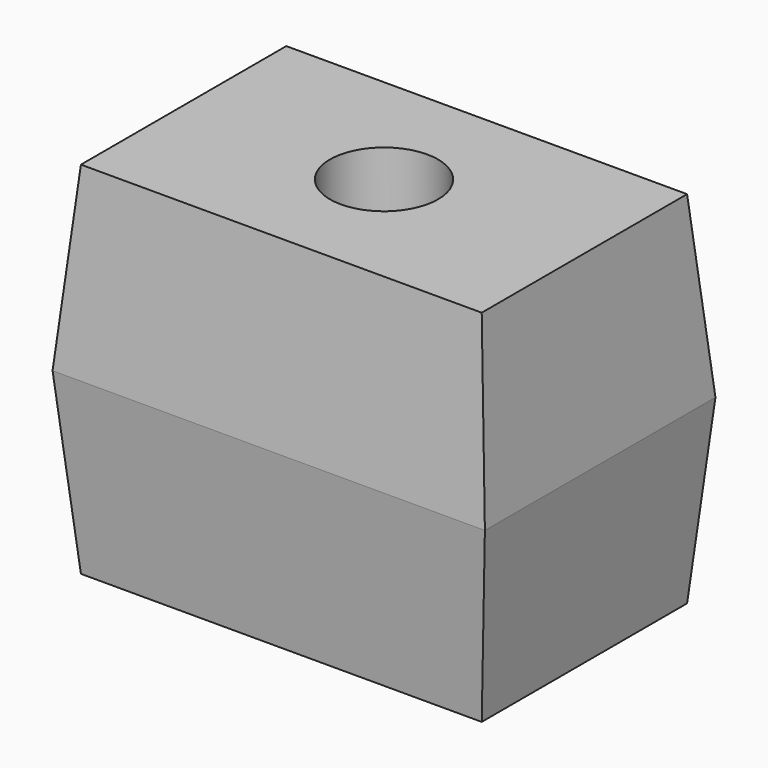
from build123d import *

# Parameters (mm, degrees)
F0_W          = 60
F0_H          = 40
F1_DEPTH      = 25
F1_TAPER      = 5
F1_DEPTH_BACK = 25
F1_TAPER_BACK = 5
F2_R          = 7.5
F3_DEPTH      = 45


with BuildPart() as f1:
    # F0 (on Top) → F1 (new body, two sides)
    with BuildSketch(Plane.XY) as f1_sk:
        with Locations((30, 20)):
            Rectangle(F0_W, F0_H)
    extrude(amount=F1_DEPTH, taper=F1_TAPER)
    extrude(f1_sk.sketch, amount=-F1_DEPTH_BACK, taper=F1_TAPER_BACK)

    # F2 (on face) → F3 (cut)
    with BuildSketch(Plane.XY.offset(25)):
        with Locations((30, 20)):
            Circle(F2_R)
    extrude(amount=-F3_DEPTH, mode=Mode.SUBTRACT)


solid = f1.part
